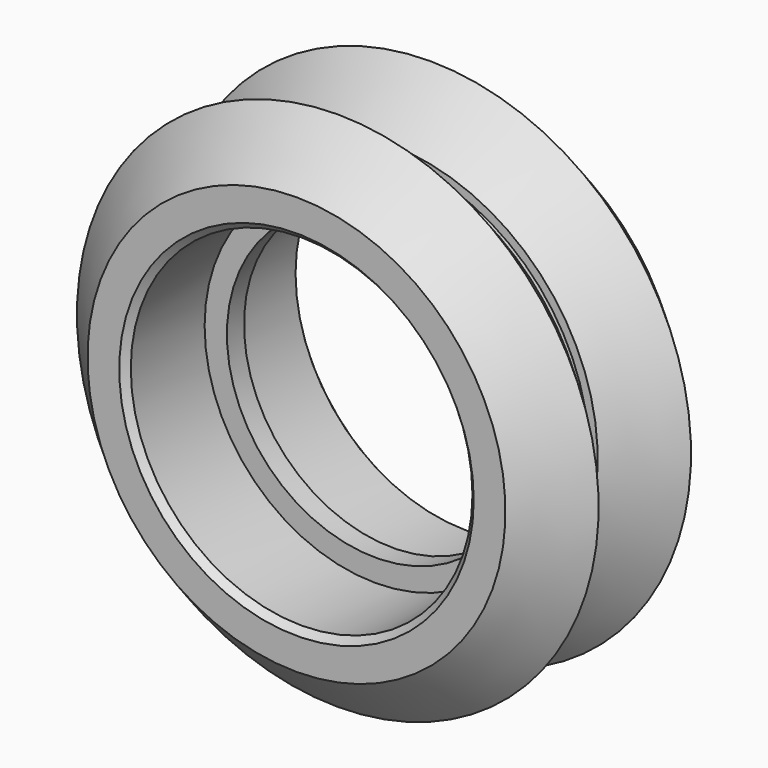
from build123d import *

# Parameters (mm, degrees)
F0_R     = 9.375
F0_R_2   = 7.987
F1_DEPTH = 5.115
F0_R_3   = 6.945
F2_DEPTH = 0.5
F5_SIZE  = 0.3


with BuildPart() as f1:
    # F0 (on Front) → F1 (new body, symmetric)
    with BuildSketch(Plane.XZ):
        Circle(F0_R)
        Circle(F0_R_2, mode=Mode.SUBTRACT)
    extrude(amount=F1_DEPTH, both=True)

    # F0 (on Front) → F2 (join, symmetric)
    with BuildSketch(Plane.XZ):
        Circle(F0_R_2)
        Circle(F0_R_3, mode=Mode.SUBTRACT)
    extrude(amount=F2_DEPTH, both=True)

    # F3 (on Right) → F4 (revolve)
    with BuildSketch(Plane.YZ):
        Polygon((0.275, 9.77), (0.275, 9.375), (5.115, 9.375), (5.115, 9.77), (2.7, 12.195), align=None)
        Polygon((-5.115, 9.375), (-0.275, 9.375), (-0.275, 9.77), (-2.7, 12.195), (-5.115, 9.77), align=None)
    revolve(axis=Axis((0, -0.5, 0), (0, -1, 0)))

    # F5
    f5_edges = [f1.edges().sort_by_distance(p)[0] for p in [
        (-7.987, 5.115, 0),
        (-7.987, -5.115, 0),
    ]]
    chamfer(f5_edges, length=F5_SIZE)


solid = f1.part
